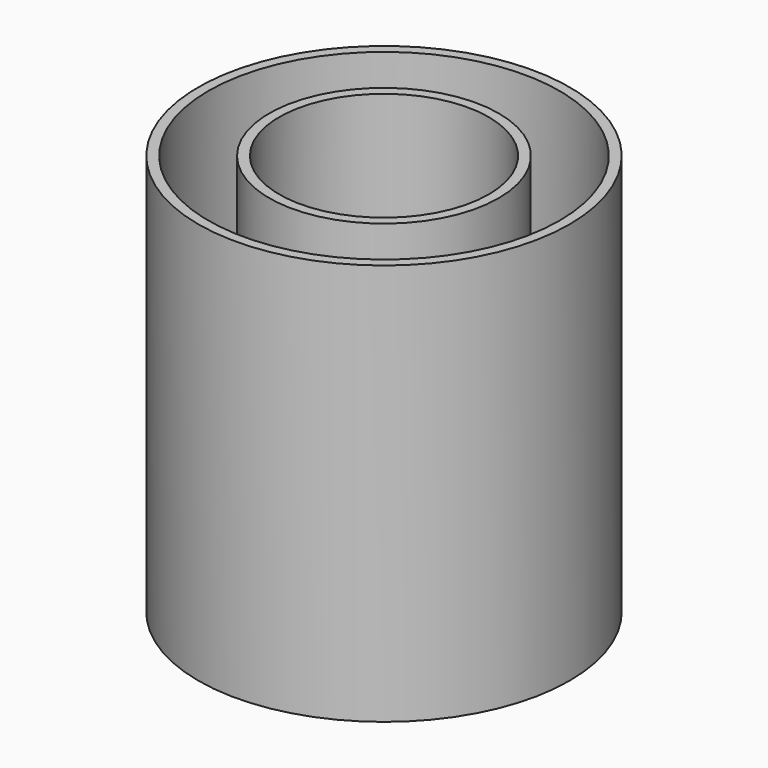
from build123d import *

# Parameters (mm, degrees)
F0_R     = 46.204257
F0_R_2   = 26.069559
F1_DEPTH = 25
F2_DEPTH = 100
F3_T     = -2.5


with BuildPart() as f1:
    # F0 (on Top) → F1 (new body)
    with BuildSketch(Plane.XY):
        Circle(F0_R)
        Circle(F0_R_2, mode=Mode.SUBTRACT)
    extrude(amount=F1_DEPTH)


with BuildPart() as f2:
    # F0 (on Top) → F2 (new body)
    with BuildSketch(Plane.XY):
        Circle(F0_R)
        Circle(F0_R_2, mode=Mode.SUBTRACT)
    extrude(amount=F2_DEPTH)

    # F3
    f3_openings = [f2.faces().sort_by_distance(p)[0] for p in [
        (-44.897403, 0, 100),
    ]]
    offset(amount=F3_T, openings=f3_openings)


solid = Compound([f1.part, f2.part])
